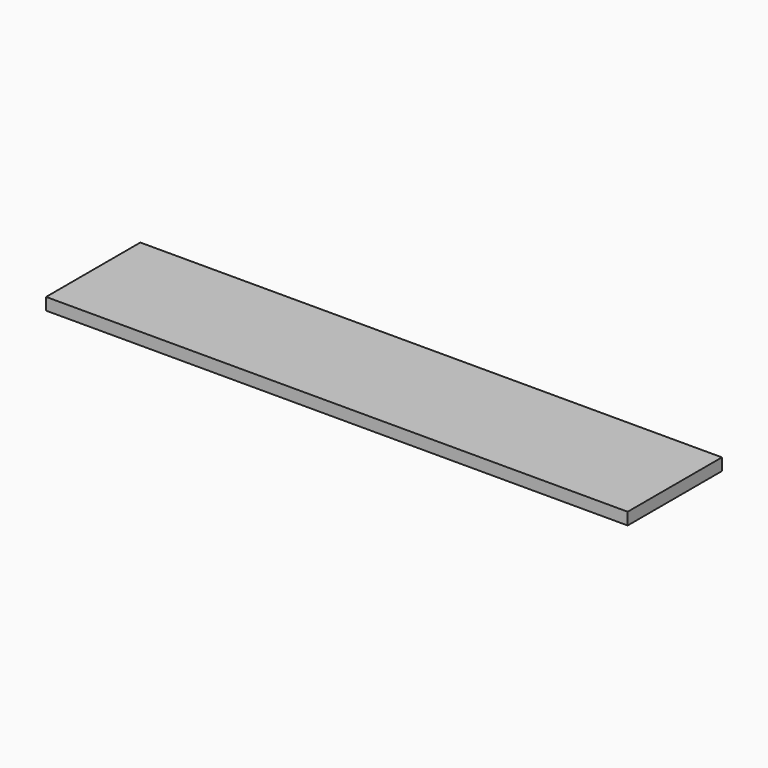
from build123d import *

# Parameters (mm, degrees)
SKETCH_W  = 864
SKETCH_H  = 175
PAD_DEPTH = 18


with BuildPart() as part:
    # Sketch → Pad (new body)
    with BuildSketch(Plane.XY):
        Rectangle(SKETCH_W, SKETCH_H)
    extrude(amount=PAD_DEPTH)


solid = part.part
